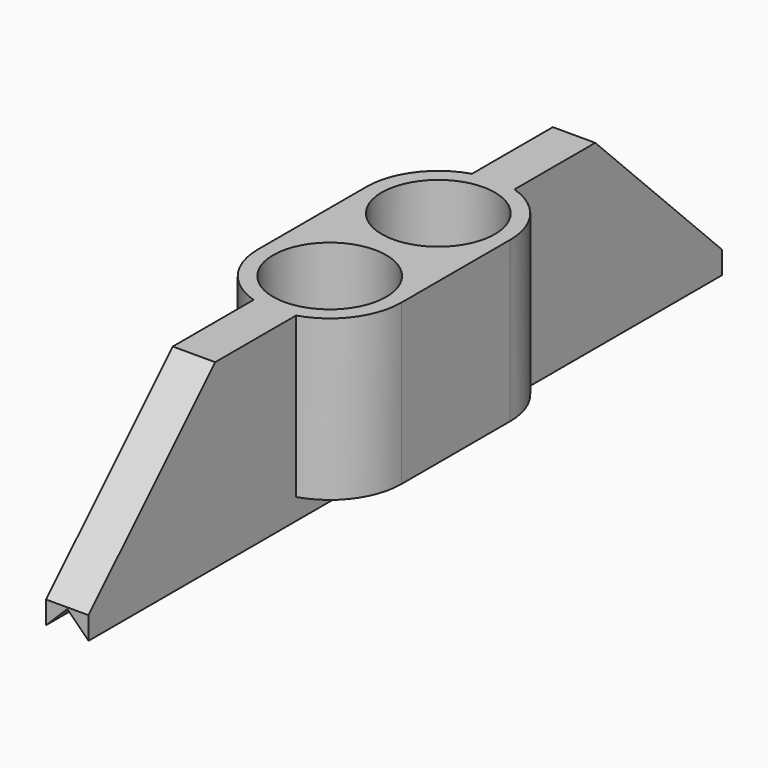
from build123d import *

# Parameters (mm, degrees)
PAD_DEPTH       = 35
PAD001_DEPTH    = 14.125
SKETCH006_R     = 5
POCKET_DEPTH    = 12
POCKET001_DEPTH = 2.5
FILLET_R        = 5


with BuildPart() as part:
    # Sketch → Pad (new body, symmetric)
    with BuildSketch(Plane.XZ):
        Polygon((0, 1.875), (-1.875, 0), (-1.875, 16), (1.875, 16), (1.875, 0), align=None)
    extrude(amount=PAD_DEPTH, both=True)

    # Sketch001 (on Face3 of Pad) → Pad001 (join)
    with BuildSketch(Plane(origin=(0, 0, 16), x_dir=(-1, 0, 0), z_dir=(0, 0, 1))):
        with BuildLine():
            ThreePointArc((6.35, 6), (0, 12.35), (-6.35, 6))
            Line((-6.35, 6), (-6.35, -6))
            ThreePointArc((-6.35, -6), (0, -12.35), (6.35, -6))
            Line((6.35, 6), (6.35, -6))
        make_face()
    extrude(amount=-PAD001_DEPTH)

    # Sketch006 (on Face15 of Pad001) → Pocket (cut)
    with BuildSketch(Plane(origin=(0, 0, 16), x_dir=(-1, 0, 0), z_dir=(0, 0, 1))):
        with Locations((0, 6)):
            Circle(SKETCH006_R)
        with Locations((0, -6)):
            Circle(SKETCH006_R)
    extrude(amount=-POCKET_DEPTH, mode=Mode.SUBTRACT)

    # Sketch005 → Pocket001 (cut, symmetric)
    with BuildSketch(Plane.YZ):
        Polygon((-36, 25), (-36, 1), (-12, 25), align=None)
        Polygon((12, 25), (36, 25), (36, 1), align=None)
    extrude(amount=POCKET001_DEPTH, both=True, mode=Mode.SUBTRACT)

    # Fillet
    fillet_edges = [part.edges().sort_by_distance(p)[0] for p in [
        (5, -6, 4),
        (5, 6, 4),
    ]]
    fillet(fillet_edges, radius=FILLET_R)


solid = part.part
